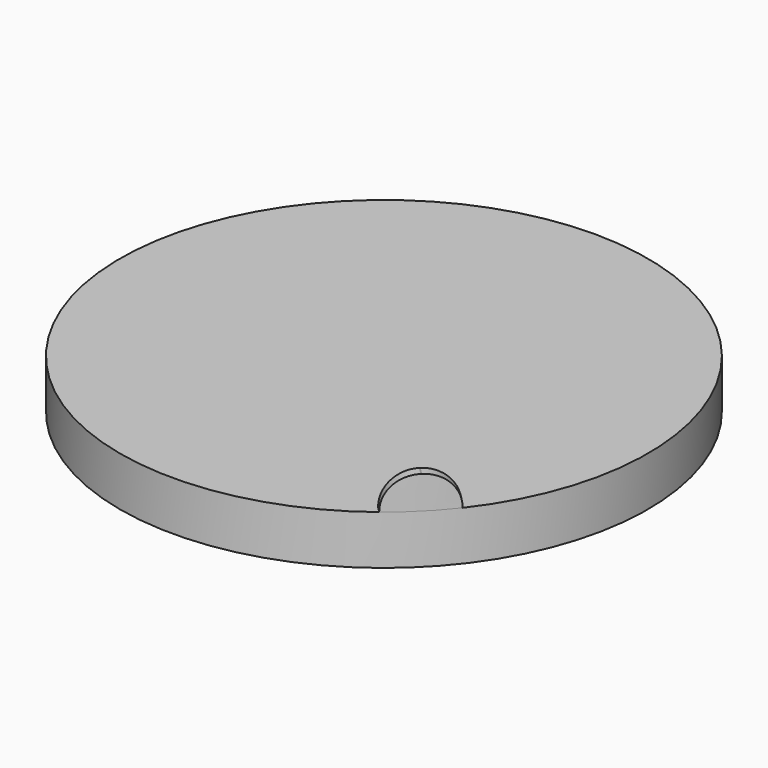
from build123d import *

# Parameters (mm, degrees)
SKETCH011_R                       = 8.05
PAD015_DEPTH                      = 1.5
SKETCH012_R                       = 1
PAD016_DEPTH                      = 1
SKETCH013_R                       = 0.5
PAD017_DEPTH                      = 1
POLARPATTERN001_COUNT             = 4
SKETCH014_R                       = 0.25
POCKET001_DEPTH                   = 0.1
POLARPATTERN002_COUNT             = 4
SKETCH015_R                       = 0.25
POCKET002_DEPTH                   = 0.1
SKETCH015_POLARPATTERN003_2_R     = 0.25
POCKET002_POLARPATTERN003_2_DEPTH = 0.1
SKETCH015_POLARPATTERN003_3_R     = 0.25
POCKET002_POLARPATTERN003_3_DEPTH = 0.1
SKETCH015_POLARPATTERN003_4_R     = 0.25
POCKET002_POLARPATTERN003_4_DEPTH = 0.1
PAD021_DEPTH                      = 1
FILLET005_R                       = 0.99
FILLET006_R                       = 0.5
FILLET007_R                       = 0.25


with BuildPart() as part:
    # Sketch011 → Pad015 (new body)
    with BuildSketch(Plane(origin=(0, 0, 1), x_dir=(0, 1, 0), z_dir=(0, 0, 1))):
        Circle(SKETCH011_R)
    extrude(amount=PAD015_DEPTH)

    # Sketch012 (on Face2 of Pad015) → Pad016 (join)
    with BuildSketch(Plane(origin=(0, 0, 1), x_dir=(1, 0, 0), z_dir=(0, 0, -1))):
        Circle(SKETCH012_R)
    extrude(amount=PAD016_DEPTH)

    # Sketch013 (on Face2 of Pad016) → Pad017 (join)
    with BuildSketch(Plane(origin=(0, 0, 1), x_dir=(0.707107, -0.707107, 0), z_dir=(0, 0, -1))):
        with Locations((0, 5.749406)):
            Circle(SKETCH013_R)
    pad017 = extrude(amount=PAD017_DEPTH)

    # PolarPattern001: Pad017 ×4 about axis
    polarpattern001_axis = Axis((0, 0, 1), (0, 0, -1))
    for i in range(1, POLARPATTERN001_COUNT):
        add(pad017.rotate(polarpattern001_axis, i * 360 / POLARPATTERN001_COUNT))

    # Sketch014 (on Face2 of PolarPattern001) → Pocket001 (cut)
    with BuildSketch(Plane(origin=(0, 0, 1), x_dir=(1, 0, 0), z_dir=(0, 0, -1))):
        with Locations((2, 2)):
            Circle(SKETCH014_R)
    pocket001 = extrude(amount=-POCKET001_DEPTH, mode=Mode.SUBTRACT)

    # PolarPattern002: Pocket001 ×4 about axis
    polarpattern002_axis = Axis((0, 0, 1), (0, 0, -1))
    for i in range(1, POLARPATTERN002_COUNT):
        add(pocket001.rotate(polarpattern002_axis, i * 360 / POLARPATTERN002_COUNT), mode=Mode.SUBTRACT)

    # Sketch015 (on Face2 of PolarPattern002) → Pocket002 (cut)
    with BuildSketch(Plane(origin=(0, 0, 1), x_dir=(1, 0, 0), z_dir=(0, 0, -1))):
        with Locations((2, -4)):
            Circle(SKETCH015_R)
    pocket002 = extrude(amount=-POCKET002_DEPTH, mode=Mode.SUBTRACT)

    # Sketch015 PolarPattern003 2 → Pocket002 PolarPattern003 2 (cut)
    with BuildSketch(Plane(origin=(0, 0, 1), x_dir=(0, -1, 0), z_dir=(0, 0, -1))):
        with Locations((2, -4)):
            Circle(SKETCH015_POLARPATTERN003_2_R)
    pocket002_polarpattern003_2 = extrude(amount=-POCKET002_POLARPATTERN003_2_DEPTH, mode=Mode.SUBTRACT)

    # Sketch015 PolarPattern003 3 → Pocket002 PolarPattern003 3 (cut)
    with BuildSketch(Plane(origin=(0, 0, 1), x_dir=(-1, 0, 0), z_dir=(0, 0, -1))):
        with Locations((2, -4)):
            Circle(SKETCH015_POLARPATTERN003_3_R)
    pocket002_polarpattern003_3 = extrude(amount=-POCKET002_POLARPATTERN003_3_DEPTH, mode=Mode.SUBTRACT)

    # Sketch015 PolarPattern003 4 → Pocket002 PolarPattern003 4 (cut)
    with BuildSketch(Plane.YX.offset(-1)):
        with Locations((2, -4)):
            Circle(SKETCH015_POLARPATTERN003_4_R)
    pocket002_polarpattern003_4 = extrude(amount=-POCKET002_POLARPATTERN003_4_DEPTH, mode=Mode.SUBTRACT)

    # Mirrored: Pocket002, Pocket002 PolarPattern003 2, Pocket002 PolarPattern003 3, Pocket002 PolarPattern003 4 across Sketch015 V_Axis
    add(pocket002.mirror(Plane(origin=(0, 0, 1), x_dir=(0, 0, -1), z_dir=(1, 0, 0))), mode=Mode.SUBTRACT)
    add(pocket002_polarpattern003_2.mirror(Plane(origin=(0, 0, 1), x_dir=(0, 0, -1), z_dir=(1, 0, 0))), mode=Mode.SUBTRACT)
    add(pocket002_polarpattern003_3.mirror(Plane(origin=(0, 0, 1), x_dir=(0, 0, -1), z_dir=(1, 0, 0))), mode=Mode.SUBTRACT)
    add(pocket002_polarpattern003_4.mirror(Plane(origin=(0, 0, 1), x_dir=(0, 0, -1), z_dir=(1, 0, 0))), mode=Mode.SUBTRACT)

    # Sketch020 → Pad021 (join)
    with BuildSketch(Plane(origin=(0, 0, 2.5), x_dir=(0.707107, 0.707107, 0), z_dir=(0, 0, 1))):
        with BuildLine():
            ThreePointArc((-1, -7.987647), (0, -8.05), (1, -7.987647))
            Line((1, -7.73794), (1, -7.987647))
            Line((-1, -7.73794), (1, -7.73794))
            Line((-1, -7.987647), (-1, -7.73794))
        make_face()
    extrude(amount=PAD021_DEPTH)

    # Fillet005
    fillet005_edges = [part.edges().sort_by_distance(p)[0] for p in [
        (6.266941, -4.852728, 3.5),
        (4.852728, -6.266941, 3.5),
    ]]
    fillet(fillet005_edges, radius=FILLET005_R)

    # Fillet006
    fillet006_edges = [part.edges().sort_by_distance(p)[0] for p in [
        (-1, 0, 0),
    ]]
    fillet(fillet006_edges, radius=FILLET006_R)

    # Fillet007
    fillet007_edges = [part.edges().sort_by_distance(p)[0] for p in [
        (3.711891, -4.418997, 0),
        (4.418997, 3.711891, 0),
        (-3.711891, 4.418997, 0),
        (-4.418997, -3.711891, 0),
    ]]
    fillet(fillet007_edges, radius=FILLET007_R)


solid = part.part
